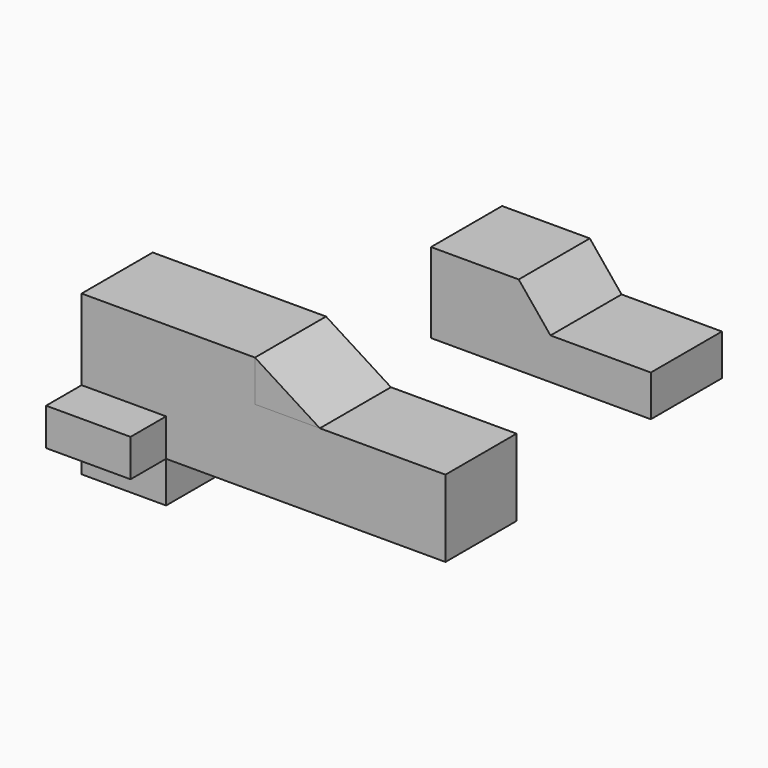
from build123d import *

# Parameters (mm, degrees)
F0_W     = 24.1422839463
F0_H     = 11.761624366
F1_DEPTH = 25.4
F3_DEPTH = 25.4
F4_W     = 24.1422839463
F4_H     = 10.6783173978
F5_DEPTH = 12.7
F6_W     = 11.0190240666
F6_H     = 7.1538891643
F7_DEPTH = 25.4
F9_DEPTH = 25.4


with BuildPart() as f1:
    # F0 (on Front) → F1 (new body)
    with BuildSketch(Plane.XZ):
        Polygon((-29.4040627778, 11.2973507494), (-43.0227853358, 11.2973507494), (-43.0227853358, 0), (-43.0227853358, -10.6783173978), (-28.1659960747, -10.6783173978), (-28.1659960747, 0), (-28.1659960747, 11.2973507494), align=None)
        Polygon((28.4755118191, 11.2973507494), (-28.1659960747, 11.2973507494), (-28.1659960747, 0), (-28.1659960747, -10.6783173978), (28.4755118191, -10.6783173978), (28.4755118191, 0), align=None)
        with Locations((-63.4508710355, 17.1781629324)):
            Rectangle(F0_W, F0_H)
        Polygon((-51.3797290623, 11.2973507494), (-75.5220130086, 11.2973507494), (-75.5220130086, 0), (-43.0227853358, 0), (-43.0227853358, 11.2973507494), align=None)
        with Locations((-63.4508710355, -16.5591295809)):
            Rectangle(F0_W, F0_H)
        Polygon((-43.0227853358, 0), (-75.5220130086, 0), (-75.5220130086, -10.6783173978), (-51.3797290623, -10.6783173978), (-43.0227853358, -10.6783173978), align=None)
    extrude(amount=F1_DEPTH)

    # F2 (on face) → F3 (join)
    with BuildSketch(Plane.YZ.offset(-51.3797290623)):
        Polygon((-23.5467646271, 23.0589751154), (-25.4, 23.0589751154), (-25.4, 11.2973507494), (-14.1892246902, 0), (11.0761392862, 0), (0, 11.2973507494), (0, 23.0589751154), align=None)
    extrude(amount=F3_DEPTH)

    # F4 (on face) → F5 (join)
    with BuildSketch(Plane.XZ.offset(25.4)):
        with Locations((-63.4508710355, -5.3391586989)):
            Rectangle(F4_W, F4_H)
    extrude(amount=F5_DEPTH)


with BuildPart() as f7:
    # F6 (on Front) → F7 (new body)
    with BuildSketch(Plane.XZ):
        Polygon((15.042738989, 34.5460958779), (15.042738989, 27.3922067136), (66.8555572629, 27.3922067136), (66.8555572629, 39.153829217), (38.1697788835, 39.153829217), (29.094543308, 50.2964220941), (4.0237149224, 50.2964220941), (4.0237149224, 34.5460958779), align=None)
        with Locations((9.5332269557, 30.9691512957)):
            Rectangle(F6_W, F6_H)
    extrude(amount=-F7_DEPTH)


with BuildPart() as f9:
    # F8 (on face) → F9 (new body)
    with BuildSketch(Plane.XZ.offset(25.4)):
        Polygon((-7.4283941649, 11.2973507494), (-25.9797290623, 23.0589751154), (-25.9797290623, 11.2973507494), align=None)
    extrude(amount=-F9_DEPTH)


solid = Compound([f1.part, f7.part, f9.part])
